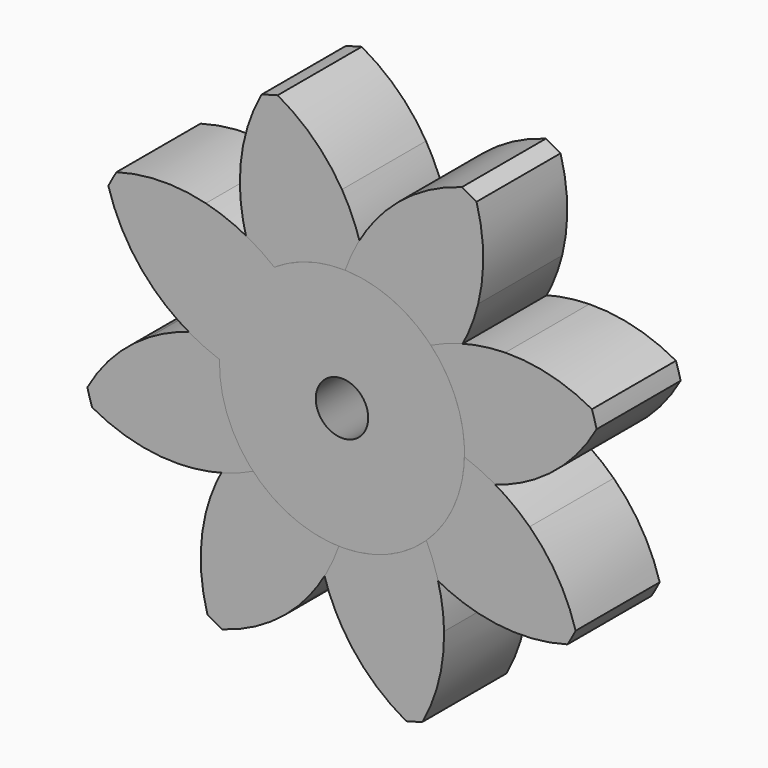
from build123d import *

# Parameters (mm, degrees)
F0_R     = 0.75
F1_DEPTH = 3
F2_COUNT = 8


with BuildPart() as f1:
    # F0 (on Front) → F1 (new body)
    with BuildSketch(Plane.XZ):
        with BuildLine():
            ThreePointArc((-2.41043, 2.537682), (-1.380851, -3.216093), (3.5, 0))
            ThreePointArc((3.5, 0), (2.710518, 2.214292), (0.698234, 3.429646))
            ThreePointArc((0.698234, 3.429646), (-0.965299, 3.364253), (-2.41043, 2.537682))
        make_face()
        Circle(F0_R, mode=Mode.SUBTRACT)
        with BuildLine():
            ThreePointArc((-2.41043, 2.537682), (-0.965299, 3.364253), (0.698234, 3.429646))
            ThreePointArc((0.698234, 3.429646), (0.459857, 4.50217), (0, 5.5))
            ThreePointArc((0, 5.5), (-0.802175, 6.506513), (-1.837244, 7.271488))
            ThreePointArc((-1.837244, 7.271488), (-2.068499, 7.209113), (-2.297644, 7.139386))
            ThreePointArc((-2.297644, 7.139386), (-2.769652, 5.941988), (-2.916132, 4.663279))
            ThreePointArc((-2.916132, 4.663279), (-2.776976, 3.573431), (-2.41043, 2.537682))
        make_face()
    extrude(amount=F1_DEPTH)


with BuildPart() as f2_1:
    # F2: instance of F1
    add(f1.part.rotate(Axis((0, 0, 0), (0, 1, 0)), 1 * 360 / F2_COUNT))


with BuildPart() as f2_2:
    # F2: instance of F1
    add(f1.part.rotate(Axis((0, 0, 0), (0, 1, 0)), 2 * 360 / F2_COUNT))


with BuildPart() as f2_3:
    # F2: instance of F1
    add(f1.part.rotate(Axis((0, 0, 0), (0, 1, 0)), 3 * 360 / F2_COUNT))


with BuildPart() as f2_4:
    # F2: instance of F1
    add(f1.part.rotate(Axis((0, 0, 0), (0, 1, 0)), 4 * 360 / F2_COUNT))


with BuildPart() as f2_5:
    # F2: instance of F1
    add(f1.part.rotate(Axis((0, 0, 0), (0, 1, 0)), 5 * 360 / F2_COUNT))


with BuildPart() as f2_6:
    # F2: instance of F1
    add(f1.part.rotate(Axis((0, 0, 0), (0, 1, 0)), 6 * 360 / F2_COUNT))


with BuildPart() as f2_7:
    # F2: instance of F1
    add(f1.part.rotate(Axis((0, 0, 0), (0, 1, 0)), 7 * 360 / F2_COUNT))


solid = Compound([f1.part, f2_1.part, f2_2.part, f2_3.part, f2_4.part, f2_5.part, f2_6.part, f2_7.part])
